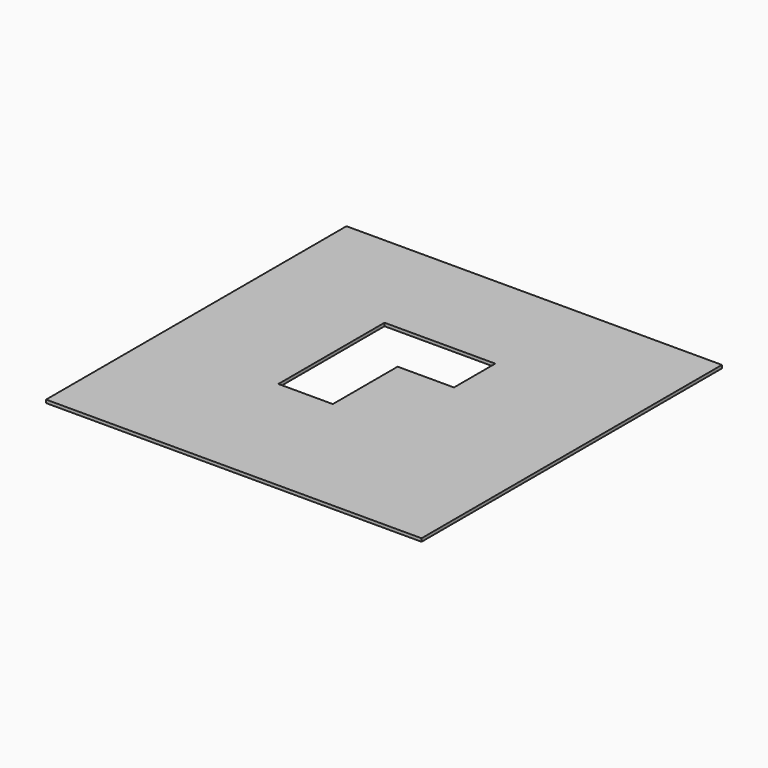
from build123d import *

# Parameters (mm, degrees)
BOX001_W     = 900
BOX001_H     = 825
BOX001_DEPTH = 50
BOX_W        = 870
BOX_H        = 2120
BOX_DEPTH    = 50
BOX002_W     = 6000
BOX002_H     = 6000
BOX002_DEPTH = 50


with BuildPart() as obj1:
    # Box001 → Box001 (new body)
    with BuildSketch(Plane(origin=(870, 1295, -50), x_dir=(1, 0, 0), z_dir=(0, 0, 1))):
        with Locations((450, 412.5)):
            Rectangle(BOX001_W, BOX001_H)
    extrude(amount=BOX001_DEPTH)


with BuildPart() as obj2:
    # Box → Box (new body)
    with BuildSketch(Plane.XY.offset(-50)):
        with Locations((435, 1060)):
            Rectangle(BOX_W, BOX_H)
    extrude(amount=BOX_DEPTH)

    # Fusion: union obj1
    add(obj1.part)


with BuildPart() as obj2_1:
    # Fusion placement: moved
    add(obj2.part.moved(Location((0, 140, 0))))


with BuildPart() as obj3:
    # Box002 → Box002 (new body)
    with BuildSketch(Plane(origin=(-2000, -2000, -50), x_dir=(1, 0, 0), z_dir=(0, 0, 1))):
        with Locations((3000, 3000)):
            Rectangle(BOX002_W, BOX002_H)
    extrude(amount=BOX002_DEPTH)

    # Cut: cut obj2
    add(obj2_1.part, mode=Mode.SUBTRACT)


solid = obj3.part
